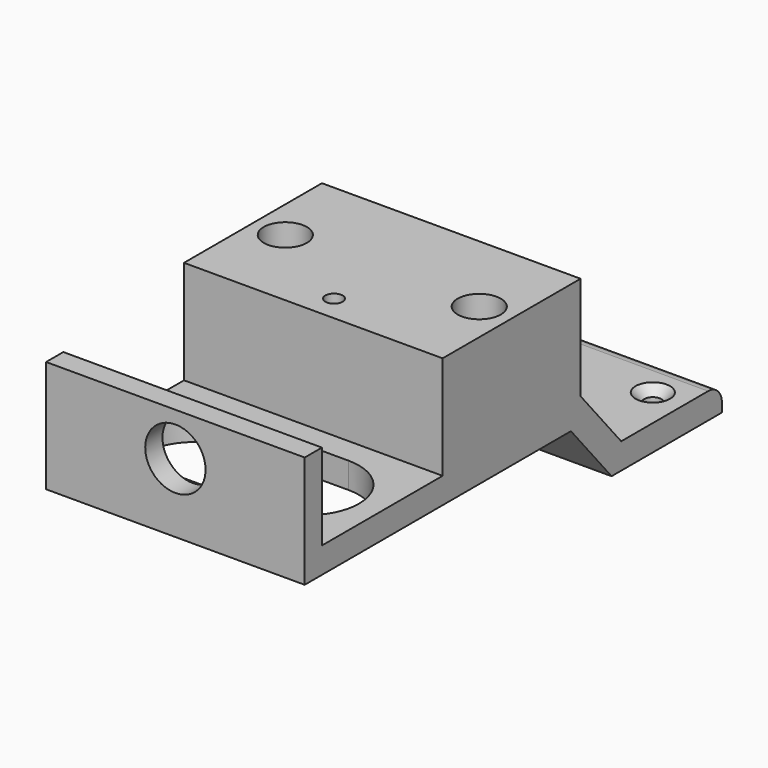
from build123d import *

# Parameters (mm, degrees)
PAD005_DEPTH        = 15
SKETCH010_W         = 20
SKETCH010_H         = 30
SKETCH010_R         = 2.5
SKETCH010_R_2       = 1
PAD006_DEPTH        = 12
POCKET004_DEPTH     = 20
POCKET004_FACE013_W = 30
POCKET004_FACE013_H = 3
PAD010_DEPTH        = 20
SKETCH012_W         = 2.5
SKETCH012_H         = 30
PAD008_DEPTH        = 10
SKETCH013_R         = 3.5
POCKET005_DEPTH     = 5
POCKET006_DEPTH     = 5
SKETCH015_R         = 1
POCKET007_DEPTH     = 5
FILLET003_R         = 2
CHAMFER001_SIZE     = 1


with BuildPart() as part:
    # Sketch009 → Pad005 (new body, symmetric)
    with BuildSketch(Plane.YZ):
        Polygon((-53.6044145035, 7), (-59.4999553571, 14), (-79.4999553571, 14), (-79.4999553571, 11), (-60.8955408536, 11), (-55, 4), (-39, 4), (-39, 7), align=None)
    extrude(amount=PAD005_DEPTH, both=True)

    # Sketch010 (on Face5 of Pad005) → Pad006 (join)
    with BuildSketch(Plane(origin=(0, 0, 14), x_dir=(0, -1, 0), z_dir=(0, 0, 1))):
        with Locations((69.4999553571, 0)):
            Rectangle(SKETCH010_W, SKETCH010_H)
        with Locations((69.4999553571, 11.25)):
            Circle(SKETCH010_R, mode=Mode.SUBTRACT)
        with Locations((69.4999553571, -11.25)):
            Circle(SKETCH010_R, mode=Mode.SUBTRACT)
        with Locations((76.4999553571, 0)):
            Circle(SKETCH010_R_2, mode=Mode.SUBTRACT)
    extrude(amount=PAD006_DEPTH)

    # Sketch011 → Pocket004 (cut)
    with BuildSketch(Plane.XZ.offset(55)):
        with BuildLine():
            ThreePointArc((-6, 12), (-7.5, 10.5), (-6, 9))
            Line((-6, 9), (6, 9))
            ThreePointArc((6, 9), (7.5, 10.5), (6, 12))
            Line((6, 12), (-6, 12))
        make_face()
    extrude(amount=POCKET004_DEPTH, mode=Mode.SUBTRACT)

    # Pocket004 Face013 → Pad010 (add)
    with BuildSketch(Plane(origin=(0, -79.4999553571, 12.5), x_dir=(-1, 0, 0), z_dir=(0, -1, 0))):
        Rectangle(POCKET004_FACE013_W, POCKET004_FACE013_H)
    extrude(amount=PAD010_DEPTH)

    # Sketch012 (on Face22 of Pad010) → Pad008 (join)
    with BuildSketch(Plane(origin=(0, 0, 14), x_dir=(0, -1, 0), z_dir=(0, 0, 1))):
        with Locations((98.2499553571, 0)):
            Rectangle(SKETCH012_W, SKETCH012_H)
    extrude(amount=PAD008_DEPTH)

    # Sketch013 (on Face30 of Pad008) → Pocket005 (cut)
    with BuildSketch(Plane(origin=(0, -99.4999553571, 0), x_dir=(0, 0, -1), z_dir=(0, -1, 0))):
        with Locations((-19, 0)):
            Circle(SKETCH013_R)
    extrude(amount=-POCKET005_DEPTH, mode=Mode.SUBTRACT)

    # Sketch014 (on Face22 of Pocket005) → Pocket006 (cut)
    with BuildSketch(Plane(origin=(0, 0, 14), x_dir=(0, -1, 0), z_dir=(0, 0, 1))):
        with BuildLine():
            ThreePointArc((94.4999553571, 6.5), (88.4999553571, 12.5), (82.4999553571, 6.5))
            Line((82.4999553571, 6.5), (82.4999553571, -6.5))
            ThreePointArc((82.4999553571, -6.5), (88.4999553571, -12.5), (94.4999553571, -6.5))
            Line((94.4999553571, -6.5), (94.4999553571, 6.5))
        make_face()
    extrude(amount=-POCKET006_DEPTH, mode=Mode.SUBTRACT)

    # Sketch015 (on Face1 of Pocket006) → Pocket007 (cut)
    with BuildSketch(Plane.YX.offset(-4)):
        with Locations((-44.3333333333, 11.25)):
            Circle(SKETCH015_R)
        with Locations((-44.3333333333, -11.25)):
            Circle(SKETCH015_R)
        with Locations((-49.6666666667, 0)):
            Circle(SKETCH015_R)
    extrude(amount=-POCKET007_DEPTH, mode=Mode.SUBTRACT)

    # Fillet003
    fillet003_edges = [part.edges().sort_by_distance(p)[0] for p in [
        (0, -39, 7),
        (6, -66.407758, 12),
    ]]
    fillet(fillet003_edges, radius=FILLET003_R)

    # Chamfer001
    chamfer001_edges = [part.edges().sort_by_distance(p)[0] for p in [
        (-11.207107, -60.895541, 11),
        (-11.25, -45.333333, 7),
        (11.25, -45.333333, 7),
    ]]
    chamfer(chamfer001_edges, length=CHAMFER001_SIZE)


solid = part.part
